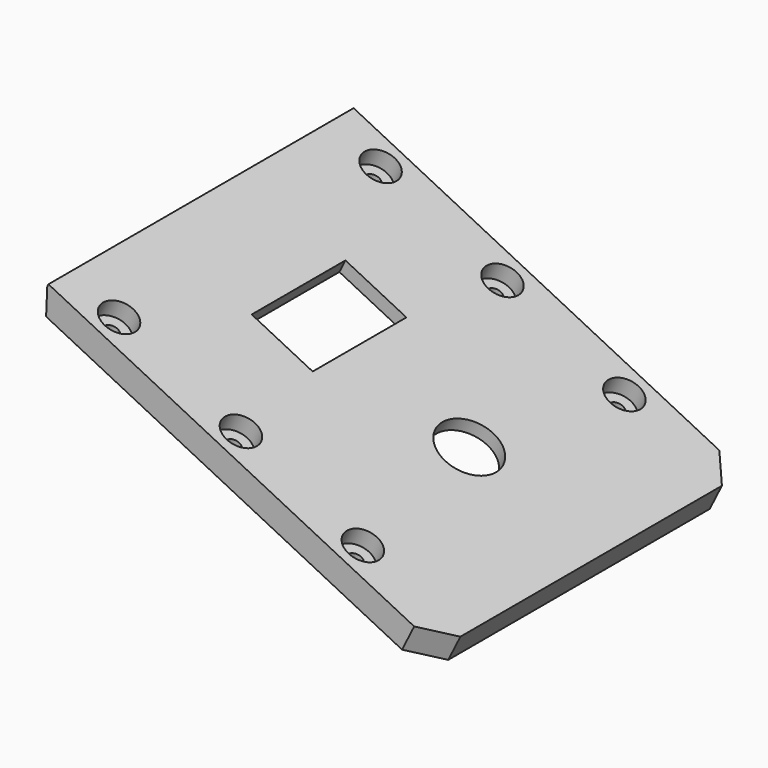
from build123d import *

# Parameters (mm, degrees)
PAD008_DEPTH            = 10
HOLE007_D               = 5.5
HOLE007_DEPTH           = 25
HOLE007_CBORE_D         = 13
HOLE007_CBORE_DEPTH     = 6.4
SKETCH024_W             = 130
SKETCH024_H             = 100
POCKET006_DEPTH         = 5
SKETCH025_W             = 25
SKETCH025_H             = 43
POCKET007_DEPTH         = 21
SKETCH026_R             = 11
POCKET008_DEPTH         = 12
PAD009_DEPTH            = 140
BODY004_PLACEMENT_ANGLE = 333.5


with BuildPart() as part:
    # Sketch022 → Pad008 (new body)
    with BuildSketch(Plane.XY):
        Polygon((0, 60), (0, -60), (-10, -70), (-156, -70), (-156, 70), (-10, 70), align=None)
    extrude(amount=PAD008_DEPTH)

    # Hole007
    with Locations(Plane.XY.offset(10)):
        with Locations((-140, 60), (-140, -60), (-90, -60), (-90, 60), (-40, 60), (-40, -60)):
            CounterBoreHole(HOLE007_D / 2, HOLE007_CBORE_D / 2, HOLE007_CBORE_DEPTH, depth=HOLE007_DEPTH)

    # Sketch024 → Pocket006 (cut)
    with BuildSketch(Plane.XY):
        with Locations((-85, 0)):
            Rectangle(SKETCH024_W, SKETCH024_H)
    extrude(amount=POCKET006_DEPTH, mode=Mode.SUBTRACT)

    # Sketch025 → Pocket007 (cut)
    with BuildSketch(Plane.XY):
        with Locations((-107.5, 0)):
            Rectangle(SKETCH025_W, SKETCH025_H)
    extrude(amount=POCKET007_DEPTH, mode=Mode.SUBTRACT)

    # Sketch026 → Pocket008 (cut)
    with BuildSketch(Plane.XY):
        with Locations((-50, 0)):
            Circle(SKETCH026_R)
    extrude(amount=POCKET008_DEPTH, mode=Mode.SUBTRACT)

    # Sketch027 → Pad009 (join)
    with BuildSketch(Plane.XZ.offset(70)):
        Polygon((-156, 10), (-160, 10), (-160, 9), (-156, 0), align=None)
    extrude(amount=-PAD009_DEPTH)


with BuildPart() as part_1:
    # Body004 placement: moved
    add(part.part.moved(Location((310, 0, 70))).rotate(Axis((310, 0, 70), (0, -1, 0)), BODY004_PLACEMENT_ANGLE))


solid = part_1.part
